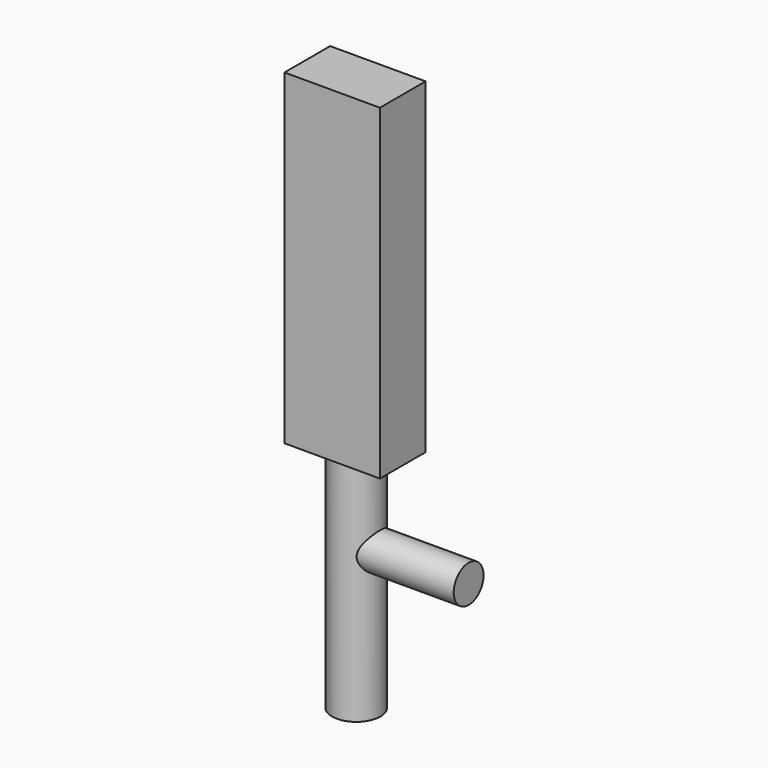
from build123d import *

# Parameters (mm, degrees)
F0_R     = 1.45
F1_DEPTH = 7.62
F2_R     = 1.877804
F3_DEPTH = 25.4
F5_W     = 7.426485
F5_H     = 4.44201
F6_DEPTH = 25.4


with BuildPart() as f1:
    # F0 (on Right) → F1 (new body)
    with BuildSketch(Plane.YZ):
        with Locations((0, 11.320898)):
            Circle(F0_R)
    extrude(amount=F1_DEPTH)

    # F2 (on Top) → F3 (join)
    with BuildSketch(Plane.XY):
        with Locations((-1.127225, 0)):
            Circle(F2_R)
    extrude(amount=F3_DEPTH)

    # F5 (on offset) → F6 (join)
    with BuildSketch(Plane.XY.offset(17.78)):
        with Locations((-1.208354, -0.011814)):
            Rectangle(F5_W, F5_H)
    extrude(amount=F6_DEPTH)


solid = f1.part
